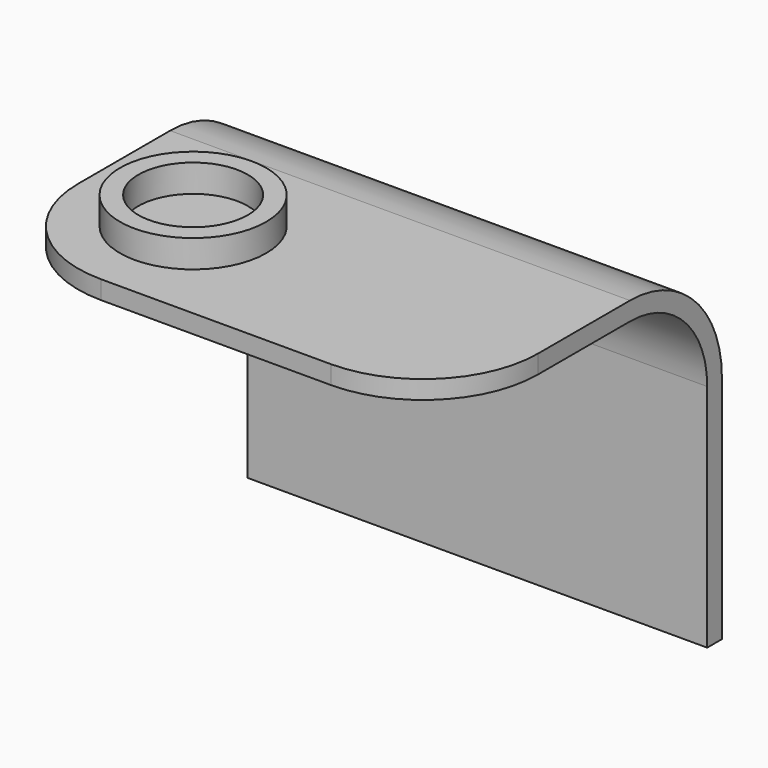
from build123d import *

# Parameters (mm, degrees)
F0_W     = 50
F0_H     = 25
F1_DEPTH = 2
F3_DEPTH = 50
F4_R     = 12.5
F5_R     = 7.95
F5_R_2   = 5.95
F6_DEPTH = 3


with BuildPart() as f1:
    # F0 (on Front) → F1 (new body)
    with BuildSketch(Plane.XZ):
        with Locations((-25, 12.5)):
            Rectangle(F0_W, F0_H)
    extrude(amount=F1_DEPTH)

    # F2 (on Right) → F3 (join, through all)
    with BuildSketch(Plane.YZ):
        with BuildLine():
            Line((-2, 25), (0, 25))
            ThreePointArc((0, 25), (-3.6611652352, 33.8388347648), (-12.5, 37.5))
            Line((-12.5, 37.5), (-37.5, 37.5))
            Line((-37.5, 37.5), (-37.5, 35.5))
            Line((-37.5, 35.5), (-12.5, 35.5))
            ThreePointArc((-12.5, 35.5), (-5.0753787975, 32.4246212025), (-2, 25))
        make_face()
    extrude(amount=-F3_DEPTH)

    # F4
    f4_edges = [f1.edges().sort_by_distance(p)[0] for p in [
        (-50, -37.5, 36.5),
        (0, -37.5, 36.5),
    ]]
    fillet(f4_edges, radius=F4_R)

    # F5 (on face) → F6 (join)
    with BuildSketch(Plane.XY.offset(37.5)):
        with Locations((-37.5, -25)):
            Circle(F5_R)
        with Locations((-37.5, -25)):
            Circle(F5_R_2, mode=Mode.SUBTRACT)
    extrude(amount=F6_DEPTH)


solid = f1.part
